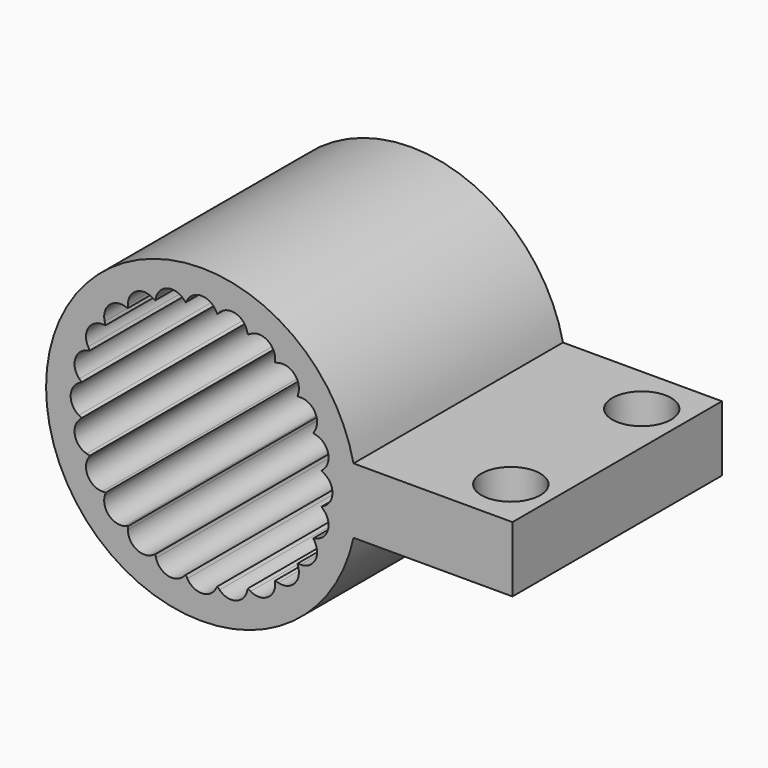
from build123d import *

# Parameters (mm, degrees)
SKETCH079_R          = 9.5
PAD028_DEPTH         = 8
POCKET026_DEPTH      = 70.546983
POCKET026_DEPTH_BACK = 70.546983
POLARPATTERN_COUNT   = 8
SKETCH081_W          = 10
SKETCH081_H          = 4
PAD030_DEPTH         = 8
SKETCH082_R          = 1.8
POCKET_DEPTH         = 11.501


with BuildPart() as part:
    # Sketch079 → Pad028 (new body, symmetric)
    with BuildSketch(Plane.XZ):
        Circle(SKETCH079_R)
    extrude(amount=PAD028_DEPTH, both=True)

    # Sketch078 → Pocket026 (cut, two sides)
    with BuildSketch(Plane.XZ) as pocket026_sk:
        with BuildLine():
            Line((0.866025, -7.5), (6.928203, 3))
            ThreePointArc((6.928203, 3), (6.928203, 4), (6.062178, 4.5))
            Line((6.062178, 4.5), (-6.062178, 4.5))
            ThreePointArc((-6.062178, 4.5), (-6.928203, 4), (-6.928203, 3))
            Line((-6.928203, 3), (-0.866025, -7.5))
            ThreePointArc((-0.866025, -7.5), (0, -8), (0.866025, -7.5))
        make_face()
    pocket026 = extrude(amount=-POCKET026_DEPTH, mode=Mode.SUBTRACT) + extrude(pocket026_sk.sketch, amount=POCKET026_DEPTH_BACK, mode=Mode.SUBTRACT)

    # PolarPattern: Pocket026 ×8 about axis
    polarpattern_axis = Axis((0, 0, 0), (0, 1, 0))
    for i in range(1, POLARPATTERN_COUNT):
        add(pocket026.rotate(polarpattern_axis, i * 360 / POLARPATTERN_COUNT), mode=Mode.SUBTRACT)

    # Sketch081 → Pad030 (join, symmetric)
    with BuildSketch(Plane.XZ):
        with Locations((14, 0)):
            Rectangle(SKETCH081_W, SKETCH081_H)
    extrude(amount=PAD030_DEPTH, both=True)

    # Sketch082 (on Face6 of Pad030) → Pocket (cut, through all)
    with BuildSketch(Plane(origin=(0, 0, 2), x_dir=(-1, 0, 0), z_dir=(0, 0, 1))):
        with Locations((-16.5, 5)):
            Circle(SKETCH082_R)
        with Locations((-16.5, -5)):
            Circle(SKETCH082_R)
    extrude(amount=-POCKET_DEPTH, mode=Mode.SUBTRACT)


with BuildPart() as part_1:
    # Body011 placement: moved
    add(part.part.moved(Location((-12, 0, 2))))


solid = part_1.part
